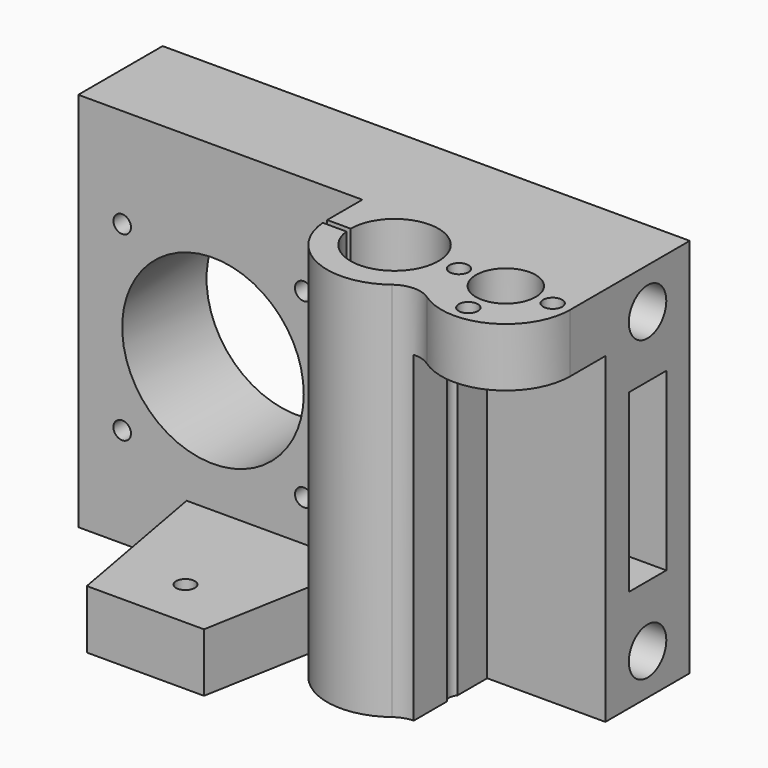
from build123d import *

# Parameters (mm, degrees)
F0_R      = 1.625
F0_R_2    = 5.1
F1_DEPTH  = 65
F2_W      = 20.1791324483
F2_H      = 55
F3_DEPTH  = 19.001
F4_R      = 15.5
F4_R_2    = 1.5
F5_DEPTH  = 18.001
F6_R      = 4
F7_DEPTH  = 40
F13_DEPTH = 4
F14_W     = 20
F14_H     = 27.55
F15_DEPTH = 10
F16_DEPTH = 2.5
F17_R     = 1.6
F18_DEPTH = 62.501


with BuildPart() as f1:
    # F0 (on Top) → F1 (new body)
    with BuildSketch(Plane.XY):
        with BuildLine():
            Line((0, 0), (0, 18))
            Line((0, 18), (-90, 18))
            Line((-90, 18), (-90, 0))
            Line((-90, 0), (-41.5, 0))
            Line((-41.5, 0), (-41.5, -7.5))
            Line((-41.5, -7.5), (-37.5, -7.5))
            ThreePointArc((-37.5, -7.5), (-22.5167601334, -6.9988801553), (-37.4330343737, -8.5))
            Line((-37.4330343737, -8.5), (-41.4564392374, -8.5))
            ThreePointArc((-41.4564392374, -8.5), (-34.6794450635, -18.0048938071), (-23.0807416268, -16.6855246755))
            ThreePointArc((-23.0807416268, -16.6855246755), (-20.1791324483, -15.6803710419), (-17.2372532895, -16.5607213511))
            ThreePointArc((-17.2372532895, -16.5607213511), (-5.8818844378, -17.2367804274), (0, -7.5))
            Line((0, -7.5), (0, 0))
        make_face()
        with Locations((-11, -15.5)):
            Circle(F0_R, mode=Mode.SUBTRACT)
        with Locations((-19, -7.5)):
            Circle(F0_R, mode=Mode.SUBTRACT)
        with Locations((-11, -7.5)):
            Circle(F0_R_2, mode=Mode.SUBTRACT)
        with Locations((-3, -7.5)):
            Circle(F0_R, mode=Mode.SUBTRACT)
    extrude(amount=F1_DEPTH)

    # F2 (on face) → F3 (cut, through all)
    with BuildSketch(Plane.XZ):
        with Locations((-10.0895662241, 27.5)):
            Rectangle(F2_W, F2_H)
    extrude(amount=F3_DEPTH, mode=Mode.SUBTRACT)

    # F4 (on face) → F5 (cut, through all)
    with BuildSketch(Plane.XZ):
        with Locations((-67, 32.5)):
            Circle(F4_R)
        with Locations((-82.5, 17)):
            Circle(F4_R_2)
        with Locations((-51.5, 17)):
            Circle(F4_R_2)
        with Locations((-51.5, 48)):
            Circle(F4_R_2)
        with Locations((-82.5, 48)):
            Circle(F4_R_2)
    extrude(amount=-F5_DEPTH, mode=Mode.SUBTRACT)

    # F6 (on face) → F7 (cut)
    with BuildSketch(Plane.YZ):
        with Locations((9, 58)):
            Circle(F6_R)
        with Locations((9, 7)):
            Circle(F6_R)
    extrude(amount=-F7_DEPTH, mode=Mode.SUBTRACT)

    # F12 (on 3pt) → F13 (cut, symmetric)
    with BuildSketch(Plane.XZ.offset(-9)):
        with BuildLine():
            Line((-67, 32.5), (0, 32.5))
            Line((0, 32.5), (0, 47.5))
            Line((0, 47.5), (-41.4564392374, 47.5))
            ThreePointArc((-41.4564392374, 47.5), (-44.6149693804, 46.7572666031), (-47.1114866019, 44.6847398058))
            ThreePointArc((-47.1114866019, 44.6847398058), (-49.0488707774, 43.0763869431), (-51.5, 42.5))
            Line((-51.5, 42.5), (-67, 42.5))
            Line((-67, 42.5), (-67, 32.5))
        make_face()
        with BuildLine():
            Line((0, 17.5), (0, 32.5))
            Line((0, 32.5), (-67, 32.5))
            Line((-67, 32.5), (-67, 22.5))
            Line((-67, 22.5), (-51.5, 22.5))
            ThreePointArc((-51.5, 22.5), (-49.0488707774, 21.9236130569), (-47.1114866019, 20.3152601942))
            ThreePointArc((-47.1114866019, 20.3152601942), (-44.6149693804, 18.2427333969), (-41.4564392374, 17.5))
            Line((-41.4564392374, 17.5), (0, 17.5))
        make_face()
    extrude(amount=F13_DEPTH, both=True, mode=Mode.SUBTRACT)

    # F14 (on face) → F15 (join)
    with BuildSketch(Plane(origin=(0, 0, 0), x_dir=(1, 0, 0), z_dir=(0, 0, -1))):
        with Locations((-56.5, 13.775)):
            Rectangle(F14_W, F14_H)
        Polygon((-52.95, 19), (-54.725, 15.9256098166), (-58.275, 15.9256098166), (-60.05, 19), (-58.275, 22.0743901834), (-54.725, 22.0743901834), align=None, mode=Mode.SUBTRACT)
        Polygon((-71.5, 0), (-66.5, 0), (-66.5, 27.55), align=None)
        Polygon((-46.5, 27.55), (-46.5, 0), (-41.5, 0), align=None)
        Polygon((-58.275, 15.9256098166), (-54.725, 15.9256098166), (-52.95, 19), (-54.725, 22.0743901834), (-58.275, 22.0743901834), (-60.05, 19), align=None)
    extrude(amount=-F15_DEPTH)

    # F14 (on face) → F16 (cut)
    with BuildSketch(Plane(origin=(0, 0, 0), x_dir=(1, 0, 0), z_dir=(0, 0, -1))):
        Polygon((-58.275, 15.9256098166), (-54.725, 15.9256098166), (-52.95, 19), (-54.725, 22.0743901834), (-58.275, 22.0743901834), (-60.05, 19), align=None)
    extrude(amount=-F16_DEPTH, mode=Mode.SUBTRACT)

    # F17 (on face) → F18 (cut, through all)
    with BuildSketch(Plane(origin=(0, 0, 2.5), x_dir=(1, 0, 0), z_dir=(0, 0, -1))):
        with Locations((-56.5, 19)):
            Circle(F17_R)
    extrude(amount=-F18_DEPTH, mode=Mode.SUBTRACT)


solid = f1.part
